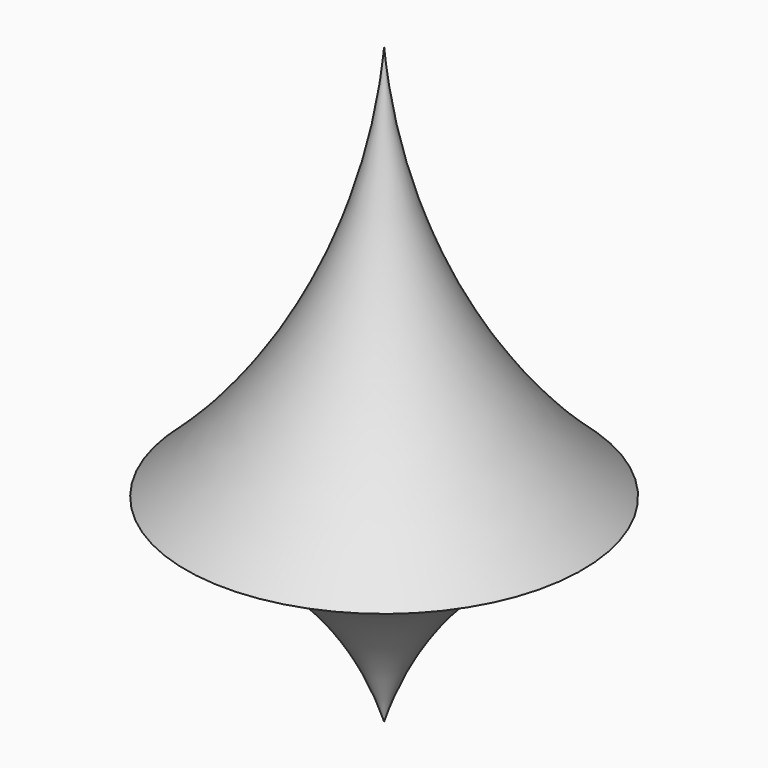
from build123d import *


with BuildPart() as f1:
    # F0 (on Right) → F1 (revolve)
    with BuildSketch(Plane.YZ):
        with BuildLine():
            ThreePointArc((0, 0), (7.495083, 12.504917), (20, 20))
            ThreePointArc((20, 20), (6.133967, 38.066983), (0, 60))
            Line((0, 60), (0, 0))
        make_face()
    revolve(axis=Axis((0, 0, 30), (0, 0, -1)))


solid = f1.part
